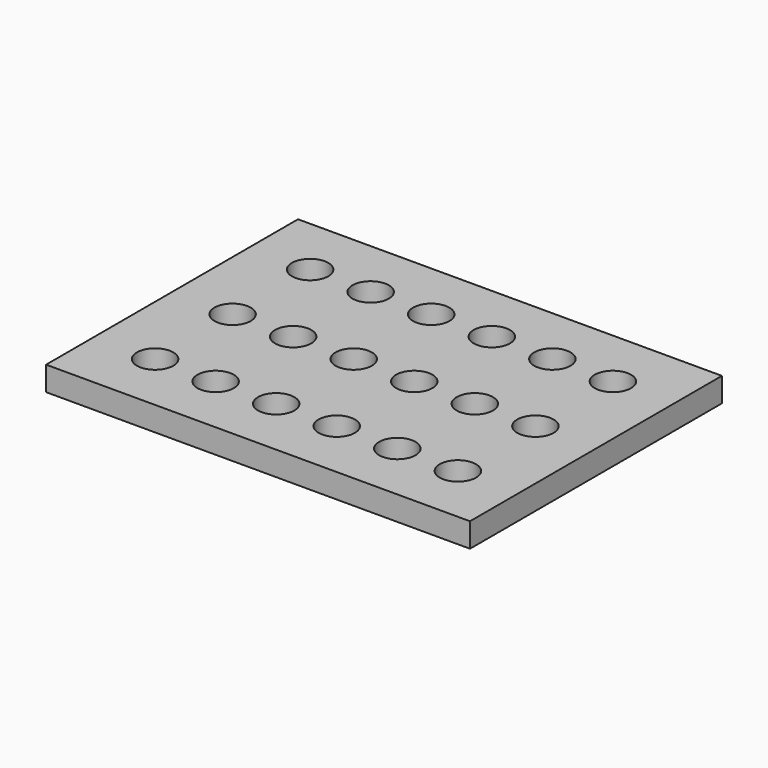
from build123d import *

# Parameters (mm, degrees)
F0_W     = 175
F0_H     = 130
F0_R     = 7.5
F1_DEPTH = 10


with BuildPart() as f1:
    # F0 (on Top) → F1 (new body)
    with BuildSketch(Plane.XY):
        Rectangle(F0_W, F0_H)
        with Locations((-62.5, -40)):
            Circle(F0_R, mode=Mode.SUBTRACT)
        with Locations((-37.5, -40)):
            Circle(F0_R, mode=Mode.SUBTRACT)
        with Locations((-12.5, -40)):
            Circle(F0_R, mode=Mode.SUBTRACT)
        with Locations((12.5, -40)):
            Circle(F0_R, mode=Mode.SUBTRACT)
        with Locations((37.5, -40)):
            Circle(F0_R, mode=Mode.SUBTRACT)
        with Locations((62.5, -40)):
            Circle(F0_R, mode=Mode.SUBTRACT)
        with Locations((-62.5, 0)):
            Circle(F0_R, mode=Mode.SUBTRACT)
        with Locations((-37.5, 0)):
            Circle(F0_R, mode=Mode.SUBTRACT)
        with Locations((-12.5, 0)):
            Circle(F0_R, mode=Mode.SUBTRACT)
        with Locations((-62.5, 40)):
            Circle(F0_R, mode=Mode.SUBTRACT)
        with Locations((-37.5, 40)):
            Circle(F0_R, mode=Mode.SUBTRACT)
        with Locations((-12.5, 40)):
            Circle(F0_R, mode=Mode.SUBTRACT)
        with Locations((12.5, 0)):
            Circle(F0_R, mode=Mode.SUBTRACT)
        with Locations((37.5, 0)):
            Circle(F0_R, mode=Mode.SUBTRACT)
        with Locations((62.5, 0)):
            Circle(F0_R, mode=Mode.SUBTRACT)
        with Locations((12.5, 40)):
            Circle(F0_R, mode=Mode.SUBTRACT)
        with Locations((37.5, 40)):
            Circle(F0_R, mode=Mode.SUBTRACT)
        with Locations((62.5, 40)):
            Circle(F0_R, mode=Mode.SUBTRACT)
    extrude(amount=F1_DEPTH)


solid = f1.part
